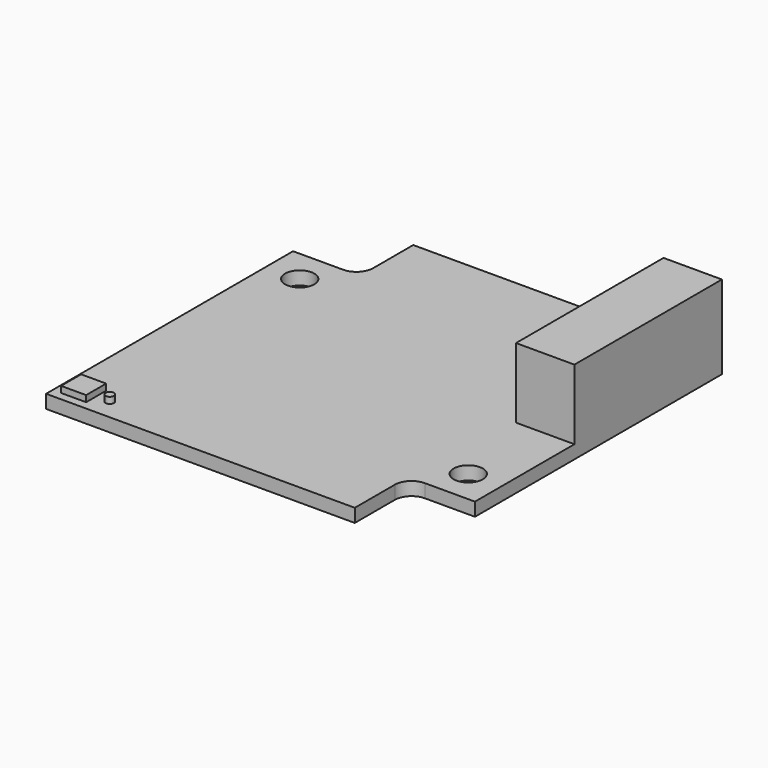
from build123d import *

# Parameters (mm, degrees)
F1_DEPTH = 1.6
F2_W     = 19
F2_H     = 25
F3_DEPTH = 5.6
F4_W     = 7
F4_H     = 22.1
F5_DEPTH = 8.4
F6_W     = 3
F6_H     = 3
F6_R     = 0.5
F7_DEPTH = 0.75
F8_R     = 1.75
F9_DEPTH = 2


with BuildPart() as f1:
    # F0 (on Top) → F1 (new body)
    with BuildSketch(Plane.XY):
        with BuildLine():
            Line((-22.5, -22.5), (14.5, -22.5))
            Line((14.5, -22.5), (14.5, -16.5))
            ThreePointArc((14.5, -16.5), (15.085786, -15.085786), (16.5, -14.5))
            Line((16.5, -14.5), (22.5, -14.5))
            Line((22.5, -14.5), (22.5, 22.5))
            Line((22.5, 22.5), (-14.5, 22.5))
            Line((-14.5, 22.5), (-14.5, 16.5))
            ThreePointArc((-14.5, 16.5), (-15.085786, 15.085786), (-16.5, 14.5))
            Line((-16.5, 14.5), (-22.5, 14.5))
            Line((-22.5, 14.5), (-22.5, -22.5))
        make_face()
    extrude(amount=F1_DEPTH)

    # F2 (on face) → F3 (join)
    with BuildSketch(Plane.XY.offset(1.6)):
        with Locations((-2.789866, 7.80402)):
            Rectangle(F2_W, F2_H)
    extrude(amount=-F3_DEPTH)

    # F4 (on face) → F5 (join)
    with BuildSketch(Plane.XY.offset(1.6)):
        with Locations((19, 11.45)):
            Rectangle(F4_W, F4_H)
    extrude(amount=F5_DEPTH)

    # F6 (on face) → F7 (join)
    with BuildSketch(Plane.XY.offset(1.6)):
        with Locations((-20, -20)):
            Rectangle(F6_W, F6_H)
        with Locations((-16.867438, -20)):
            Circle(F6_R)
    extrude(amount=F7_DEPTH)

    # F8 (on face) → F9 (cut)
    with BuildSketch(Plane(origin=(0, 0, 0), x_dir=(1, 0, 0), z_dir=(0, 0, -1))):
        with Locations((-18.5, -10.5)):
            Circle(F8_R)
        with Locations((18.5, 10.5)):
            Circle(F8_R)
    extrude(amount=-F9_DEPTH, mode=Mode.SUBTRACT)


solid = f1.part
